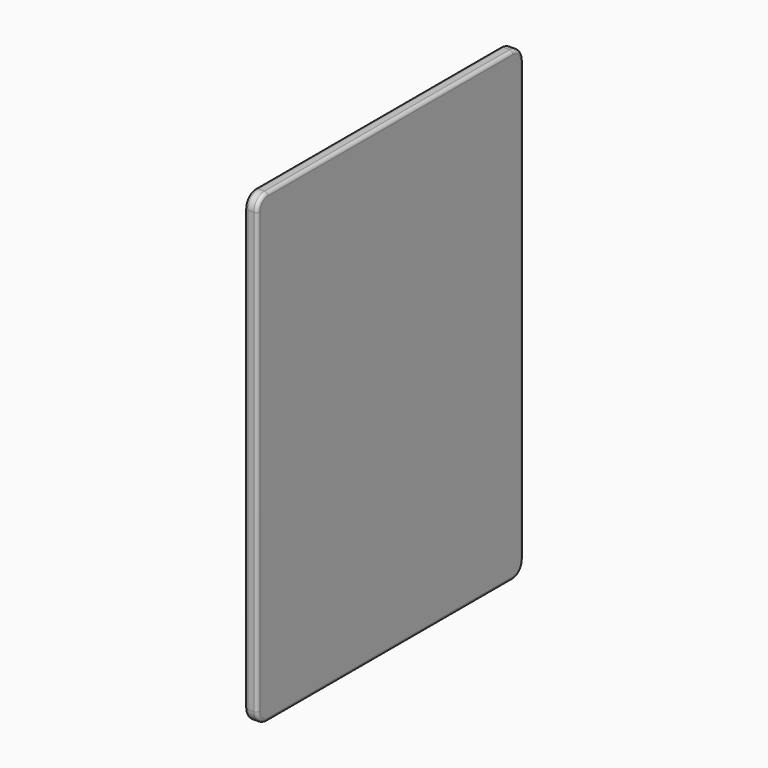
from build123d import *

# Parameters (mm, degrees)
F0_W     = 500
F0_H     = 700
F1_DEPTH = 19
F2_R     = 20
F3_R     = 5


with BuildPart() as f1:
    # F0 (on Right) → F1 (new body)
    with BuildSketch(Plane.YZ):
        with Locations((216.609364, 367.114102)):
            Rectangle(F0_W, F0_H)
    extrude(amount=F1_DEPTH)

    # F2
    f2_edges = [f1.edges().sort_by_distance(p)[0] for p in [
        (9.5, -33.390636, 717.114102),
        (9.5, -33.390636, 17.114102),
        (9.5, 466.609364, 17.114102),
        (9.5, 466.609364, 717.114102),
    ]]
    fillet(f2_edges, radius=F2_R)

    # F3
    f3_edges = [f1.edges().sort_by_distance(p)[0] for p in [
        (0, 466.609364, 367.114102),
        (19, 466.609364, 367.114102),
    ]]
    fillet(f3_edges, radius=F3_R)


solid = f1.part
